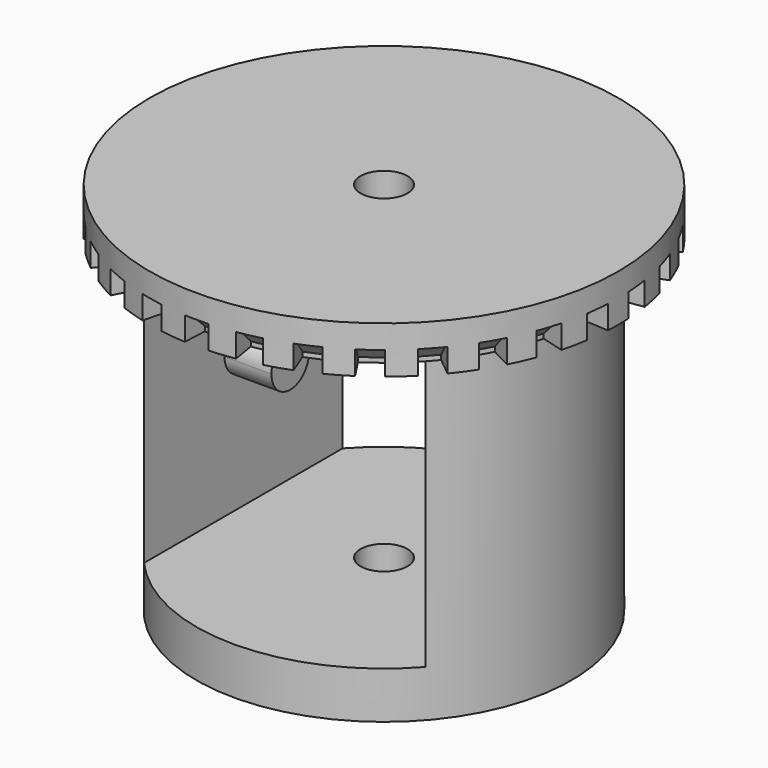
from build123d import *

# Parameters (mm, degrees)
F0_W     = 2
F0_H     = 2
F0_H_2   = 1
F2_W     = 12
F2_H     = 12
F3_DEPTH = 25
F4_DEPTH = 25
F7_DEPTH = 2
F9_DEPTH = 1
F10_SIZE = 0.8


with BuildPart() as f1:
    # F0 (on Front) → F1 (revolve)
    with BuildSketch(Plane.XZ):
        Polygon((-6, -2), (-6, 0), (-6, 1), (-6, 11), (-8, 11), (-8, -2), align=None)
        Polygon((-1, -2), (-1, 0), (-5, 0), (-6, 0), (-6, -2), align=None)
        Polygon((-5, 12), (-1, 12), (-1, 14), (-8, 14), (-8, 12), (-6, 12), align=None)
        with Locations((-9, 13)):
            Rectangle(F0_W, F0_H)
        with Locations((-7, 11.5)):
            Rectangle(F0_W, F0_H_2)
    revolve(axis=Axis((0, 0, 11), (0, 0, 1)))

    # F2 (on Front) → F3 (cut)
    with BuildSketch(Plane.XZ):
        with Locations((0, 6)):
            Rectangle(F2_W, F2_H)
    extrude(amount=-F3_DEPTH, mode=Mode.SUBTRACT)

    # F2 (on Front) → F4 (cut)
    with BuildSketch(Plane.XZ):
        with Locations((0, 6)):
            Rectangle(F2_W, F2_H)
    extrude(amount=F4_DEPTH, mode=Mode.SUBTRACT)

    # F6 (on face) → F7 (join)
    with BuildSketch(Plane.YZ.offset(-6)):
        with BuildLine():
            ThreePointArc((1, 6), (0.7071067812, 6.7071067812), (0, 7))
            Line((0, 7), (0, 6))
            Line((0, 6), (1, 6))
        make_face()
        with BuildLine():
            ThreePointArc((0, 5), (0.7071067812, 5.2928932188), (1, 6))
            Line((1, 6), (0, 6))
            Line((0, 6), (0, 5))
        make_face()
        with BuildLine():
            Line((0, 5), (0, 6))
            Line((0, 6), (-1, 6))
            ThreePointArc((-1, 6), (-0.7071067812, 5.2928932188), (0, 5))
        make_face()
        with BuildLine():
            Line((0, 6), (0, 7))
            ThreePointArc((0, 7), (-0.7071067812, 6.7071067812), (-1, 6))
            Line((-1, 6), (0, 6))
        make_face()
    extrude(amount=F7_DEPTH)

    # F8 (on face) → F9 (cut)
    with BuildSketch(Plane(origin=(0, 0, 12), x_dir=(1, 0, 0), z_dir=(0, 0, -1))):
        with BuildLine():
            Line((-0.5, 9.9874921777), (-0.45, 8.9887429599))
            ThreePointArc((-0.45, 8.9887429599), (0, 9), (0.45, 8.9887429599))
            Line((0.45, 8.9887429599), (0.5, 9.9874921777))
            ThreePointArc((0.5, 9.9874921777), (0, 10), (-0.5, 9.9874921777))
        make_face()
        with BuildLine():
            Line((1.5874425853, 9.8731973564), (1.4286983268, 8.8858776208))
            ThreePointArc((1.4286983268, 8.8858776208), (1.8712052174, 8.8033284066), (2.3090311675, 8.698757099))
            Line((2.3090311675, 8.698757099), (2.5655901861, 9.6652856656))
            ThreePointArc((2.5655901861, 9.6652856656), (2.0791169082, 9.7814760073), (1.5874425853, 9.8731973564))
        make_face()
        with BuildLine():
            Line((3.6055063123, 9.3273964337), (3.2449556811, 8.3946567904))
            ThreePointArc((3.2449556811, 8.3946567904), (3.6606297877, 8.2219091188), (4.0671465929, 8.0285938116))
            Line((4.0671465929, 8.0285938116), (4.5190517699, 8.9206597907))
            ThreePointArc((4.5190517699, 8.9206597907), (4.0673664308, 9.1354545764), (3.6055063123, 9.3273964337))
        make_face()
        with BuildLine():
            Line((5.4659921123, 8.3739435291), (4.919392901, 7.5365491762))
            ThreePointArc((4.919392901, 7.5365491762), (5.2900672706, 7.2811529494), (5.647508196, 7.0075424491))
            Line((5.647508196, 7.0075424491), (6.2750091066, 7.7861582768))
            ThreePointArc((6.2750091066, 7.7861582768), (5.8778525229, 8.0901699437), (5.4659921123, 8.3739435291))
        make_face()
        with BuildLine():
            ThreePointArc((6.3788290454, 6.3490581987), (6.6883034293, 6.0221754572), (6.9810465911, 5.6802278557))
            Line((6.9810465911, 5.6802278557), (7.7567184345, 6.3113642841))
            ThreePointArc((7.7567184345, 6.3113642841), (7.4314482548, 6.6913060636), (7.0875878282, 7.0545091096))
            Line((7.0875878282, 7.0545091096), (6.3788290454, 6.3490581987))
        make_face()
        with BuildLine():
            ThreePointArc((7.5594797514, 4.8840829117), (7.7942286341, 4.5), (8.0094797514, 4.1046600483))
            Line((8.0094797514, 4.1046600483), (8.899421946, 4.560733387))
            ThreePointArc((8.899421946, 4.560733387), (8.6602540378, 5), (8.399421946, 5.4267587908))
            Line((8.399421946, 5.4267587908), (7.5594797514, 4.8840829117))
        make_face()
        with BuildLine():
            ThreePointArc((8.4097449179, 3.205649765), (8.5595086467, 2.7811529494), (8.6878602128, 2.3496989004))
            Line((8.6878602128, 2.3496989004), (9.6531780143, 2.610776556))
            ThreePointArc((9.6531780143, 2.610776556), (9.510565163, 3.0901699437), (9.3441610199, 3.5618330722))
            Line((9.3441610199, 3.5618330722), (8.4097449179, 3.205649765))
        make_face()
        with BuildLine():
            ThreePointArc((8.892463877, 1.3871143412), (8.9506970583, 0.9407561694), (8.986539494, 0.4920446354))
            Line((8.986539494, 0.4920446354), (9.9850438822, 0.5467162616))
            ThreePointArc((9.9850438822, 0.5467162616), (9.9452189537, 1.0452846327), (9.8805154189, 1.5412381569))
            Line((9.8805154189, 1.5412381569), (8.892463877, 1.3871143412))
        make_face()
        with BuildLine():
            Line((9.9850438822, -0.5467162616), (8.986539494, -0.4920446354))
            ThreePointArc((8.986539494, -0.4920446354), (8.9506970583, -0.9407561694), (8.892463877, -1.3871143412))
            Line((8.892463877, -1.3871143412), (9.8805154189, -1.5412381569))
            ThreePointArc((9.8805154189, -1.5412381569), (9.9452189537, -1.0452846327), (9.9850438822, -0.5467162616))
        make_face()
        with BuildLine():
            Line((9.6531780143, -2.610776556), (8.6878602128, -2.3496989004))
            ThreePointArc((8.6878602128, -2.3496989004), (8.5595086467, -2.7811529494), (8.4097449179, -3.205649765))
            Line((8.4097449179, -3.205649765), (9.3441610199, -3.5618330722))
            ThreePointArc((9.3441610199, -3.5618330722), (9.510565163, -3.0901699437), (9.6531780143, -2.610776556))
        make_face()
        with BuildLine():
            Line((8.899421946, -4.560733387), (8.0094797514, -4.1046600483))
            ThreePointArc((8.0094797514, -4.1046600483), (7.7942286341, -4.5), (7.5594797514, -4.8840829117))
            Line((7.5594797514, -4.8840829117), (8.399421946, -5.4267587908))
            ThreePointArc((8.399421946, -5.4267587908), (8.6602540378, -5), (8.899421946, -4.560733387))
        make_face()
        with BuildLine():
            ThreePointArc((6.9810465911, -5.6802278557), (6.6883034293, -6.0221754572), (6.3788290454, -6.3490581987))
            Line((6.3788290454, -6.3490581987), (7.0875878282, -7.0545091096))
            ThreePointArc((7.0875878282, -7.0545091096), (7.4314482548, -6.6913060636), (7.7567184345, -6.3113642841))
            Line((7.7567184345, -6.3113642841), (6.9810465911, -5.6802278557))
        make_face()
        with BuildLine():
            Line((6.2750091066, -7.7861582768), (5.647508196, -7.0075424491))
            ThreePointArc((5.647508196, -7.0075424491), (5.2900672706, -7.2811529494), (4.919392901, -7.5365491762))
            Line((4.919392901, -7.5365491762), (5.4659921123, -8.3739435291))
            ThreePointArc((5.4659921123, -8.3739435291), (5.8778525229, -8.0901699437), (6.2750091066, -7.7861582768))
        make_face()
        with BuildLine():
            Line((-2.5655901861, 9.6652856656), (-2.3090311675, 8.698757099))
            ThreePointArc((-2.3090311675, 8.698757099), (-1.8712052174, 8.8033284066), (-1.4286983268, 8.8858776208))
            Line((-1.4286983268, 8.8858776208), (-1.5874425853, 9.8731973564))
            ThreePointArc((-1.5874425853, 9.8731973564), (-2.0791169082, 9.7814760073), (-2.5655901861, 9.6652856656))
        make_face()
        with BuildLine():
            Line((-4.5190517699, 8.9206597907), (-4.0671465929, 8.0285938116))
            ThreePointArc((-4.0671465929, 8.0285938116), (-3.6606297877, 8.2219091188), (-3.2449556811, 8.3946567904))
            Line((-3.2449556811, 8.3946567904), (-3.6055063123, 9.3273964337))
            ThreePointArc((-3.6055063123, 9.3273964337), (-4.0673664308, 9.1354545764), (-4.5190517699, 8.9206597907))
        make_face()
        with BuildLine():
            Line((-6.2750091066, 7.7861582768), (-5.647508196, 7.0075424491))
            ThreePointArc((-5.647508196, 7.0075424491), (-5.2900672706, 7.2811529494), (-4.919392901, 7.5365491762))
            Line((-4.919392901, 7.5365491762), (-5.4659921123, 8.3739435291))
            ThreePointArc((-5.4659921123, 8.3739435291), (-5.8778525229, 8.0901699437), (-6.2750091066, 7.7861582768))
        make_face()
        with BuildLine():
            ThreePointArc((-6.9810465911, 5.6802278557), (-6.6883034293, 6.0221754572), (-6.3788290454, 6.3490581987))
            Line((-6.3788290454, 6.3490581987), (-7.0875878282, 7.0545091096))
            ThreePointArc((-7.0875878282, 7.0545091096), (-7.4314482548, 6.6913060636), (-7.7567184345, 6.3113642841))
            Line((-7.7567184345, 6.3113642841), (-6.9810465911, 5.6802278557))
        make_face()
        with BuildLine():
            ThreePointArc((-8.0094797514, 4.1046600483), (-7.7942286341, 4.5), (-7.5594797514, 4.8840829117))
            Line((-7.5594797514, 4.8840829117), (-8.399421946, 5.4267587908))
            ThreePointArc((-8.399421946, 5.4267587908), (-8.6602540378, 5), (-8.899421946, 4.560733387))
            Line((-8.899421946, 4.560733387), (-8.0094797514, 4.1046600483))
        make_face()
        with BuildLine():
            Line((-9.6531780143, 2.610776556), (-8.6878602128, 2.3496989004))
            ThreePointArc((-8.6878602128, 2.3496989004), (-8.5595086467, 2.7811529494), (-8.4097449179, 3.205649765))
            Line((-8.4097449179, 3.205649765), (-9.3441610199, 3.5618330722))
            ThreePointArc((-9.3441610199, 3.5618330722), (-9.510565163, 3.0901699437), (-9.6531780143, 2.610776556))
        make_face()
        with BuildLine():
            Line((-9.9850438822, 0.5467162616), (-8.986539494, 0.4920446354))
            ThreePointArc((-8.986539494, 0.4920446354), (-8.9506970583, 0.9407561694), (-8.892463877, 1.3871143412))
            Line((-8.892463877, 1.3871143412), (-9.8805154189, 1.5412381569))
            ThreePointArc((-9.8805154189, 1.5412381569), (-9.9452189537, 1.0452846327), (-9.9850438822, 0.5467162616))
        make_face()
        with BuildLine():
            Line((-9.8805154189, -1.5412381569), (-8.892463877, -1.3871143412))
            ThreePointArc((-8.892463877, -1.3871143412), (-8.9506970583, -0.9407561694), (-8.986539494, -0.4920446354))
            Line((-8.986539494, -0.4920446354), (-9.9850438822, -0.5467162616))
            ThreePointArc((-9.9850438822, -0.5467162616), (-9.9452189537, -1.0452846327), (-9.8805154189, -1.5412381569))
        make_face()
        with BuildLine():
            Line((-9.3441610199, -3.5618330722), (-8.4097449179, -3.205649765))
            ThreePointArc((-8.4097449179, -3.205649765), (-8.5595086467, -2.7811529494), (-8.6878602128, -2.3496989004))
            Line((-8.6878602128, -2.3496989004), (-9.6531780143, -2.610776556))
            ThreePointArc((-9.6531780143, -2.610776556), (-9.510565163, -3.0901699437), (-9.3441610199, -3.5618330722))
        make_face()
        with BuildLine():
            Line((-8.399421946, -5.4267587908), (-7.5594797514, -4.8840829117))
            ThreePointArc((-7.5594797514, -4.8840829117), (-7.7942286341, -4.5), (-8.0094797514, -4.1046600483))
            Line((-8.0094797514, -4.1046600483), (-8.899421946, -4.560733387))
            ThreePointArc((-8.899421946, -4.560733387), (-8.6602540378, -5), (-8.399421946, -5.4267587908))
        make_face()
        with BuildLine():
            Line((-7.0875878282, -7.0545091096), (-6.3788290454, -6.3490581987))
            ThreePointArc((-6.3788290454, -6.3490581987), (-6.6883034293, -6.0221754572), (-6.9810465911, -5.6802278557))
            Line((-6.9810465911, -5.6802278557), (-7.7567184345, -6.3113642841))
            ThreePointArc((-7.7567184345, -6.3113642841), (-7.4314482548, -6.6913060636), (-7.0875878282, -7.0545091096))
        make_face()
        with BuildLine():
            Line((4.5190517699, -8.9206597907), (4.0671465929, -8.0285938116))
            ThreePointArc((4.0671465929, -8.0285938116), (3.6606297877, -8.2219091188), (3.2449556811, -8.3946567904))
            Line((3.2449556811, -8.3946567904), (3.6055063123, -9.3273964337))
            ThreePointArc((3.6055063123, -9.3273964337), (4.0673664308, -9.1354545764), (4.5190517699, -8.9206597907))
        make_face()
        with BuildLine():
            Line((2.5655901861, -9.6652856656), (2.3090311675, -8.698757099))
            ThreePointArc((2.3090311675, -8.698757099), (1.8712052174, -8.8033284066), (1.4286983268, -8.8858776208))
            Line((1.4286983268, -8.8858776208), (1.5874425853, -9.8731973564))
            ThreePointArc((1.5874425853, -9.8731973564), (2.0791169082, -9.7814760073), (2.5655901861, -9.6652856656))
        make_face()
        with BuildLine():
            Line((0.5, -9.9874921777), (0.45, -8.9887429599))
            ThreePointArc((0.45, -8.9887429599), (0, -9), (-0.45, -8.9887429599))
            Line((-0.45, -8.9887429599), (-0.5, -9.9874921777))
            ThreePointArc((-0.5, -9.9874921777), (0, -10), (0.5, -9.9874921777))
        make_face()
        with BuildLine():
            Line((-1.5874425853, -9.8731973564), (-1.4286983268, -8.8858776208))
            ThreePointArc((-1.4286983268, -8.8858776208), (-1.8712052174, -8.8033284066), (-2.3090311675, -8.698757099))
            Line((-2.3090311675, -8.698757099), (-2.5655901861, -9.6652856656))
            ThreePointArc((-2.5655901861, -9.6652856656), (-2.0791169082, -9.7814760073), (-1.5874425853, -9.8731973564))
        make_face()
        with BuildLine():
            Line((-3.6055063123, -9.3273964337), (-3.2449556811, -8.3946567904))
            ThreePointArc((-3.2449556811, -8.3946567904), (-3.6606297877, -8.2219091188), (-4.0671465929, -8.0285938116))
            Line((-4.0671465929, -8.0285938116), (-4.5190517699, -8.9206597907))
            ThreePointArc((-4.5190517699, -8.9206597907), (-4.0673664308, -9.1354545764), (-3.6055063123, -9.3273964337))
        make_face()
        with BuildLine():
            Line((-5.4659921123, -8.3739435291), (-4.919392901, -7.5365491762))
            ThreePointArc((-4.919392901, -7.5365491762), (-5.2900672706, -7.2811529494), (-5.647508196, -7.0075424491))
            Line((-5.647508196, -7.0075424491), (-6.2750091066, -7.7861582768))
            ThreePointArc((-6.2750091066, -7.7861582768), (-5.8778525229, -8.0901699437), (-5.4659921123, -8.3739435291))
        make_face()
    extrude(amount=-F9_DEPTH, mode=Mode.SUBTRACT)

    # F10
    f10_edges = [f1.edges().sort_by_distance(p)[0] for p in [
        (-3.66063, 8.221909, 13),
        (-5.290067, 7.281153, 13),
        (-6.688303, 6.022175, 13),
        (-7.794229, 4.5, 13),
        (-8.559509, 2.781153, 13),
        (-8.950697, 0.940756, 13),
        (-8.950697, -0.940756, 13),
        (-8.559509, -2.781153, 13),
        (-7.794229, -4.5, 13),
        (-6.688303, -6.022175, 13),
        (-5.290067, -7.281153, 13),
        (-3.66063, -8.221909, 13),
        (-1.871205, -8.803328, 13),
        (0, -9, 13),
        (1.871205, -8.803328, 13),
        (3.66063, -8.221909, 13),
        (5.290067, -7.281153, 13),
        (6.688303, -6.022175, 13),
        (7.794229, -4.5, 13),
        (8.559509, -2.781153, 13),
        (8.950697, -0.940756, 13),
        (8.950697, 0.940756, 13),
        (8.559509, 2.781153, 13),
        (7.794229, 4.5, 13),
        (6.688303, 6.022175, 13),
        (-1.871205, 8.803328, 13),
        (0, 9, 13),
        (1.871205, 8.803328, 13),
        (3.66063, 8.221909, 13),
        (5.290067, 7.281153, 13),
    ]]
    chamfer(f10_edges, length=F10_SIZE)


solid = f1.part
